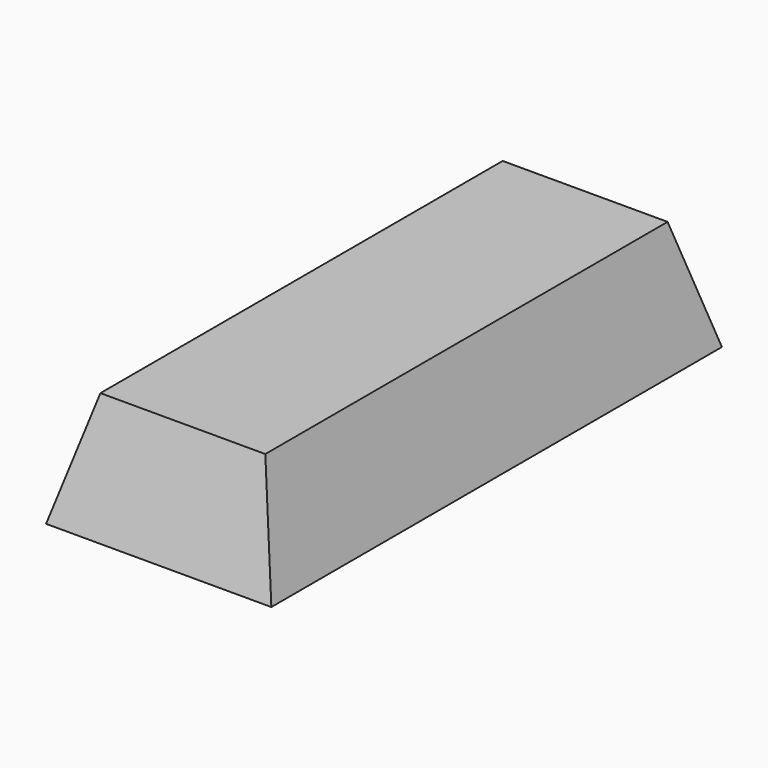
from build123d import *

# Parameters (mm, degrees)
F0_W     = 50.8
F0_H     = 127
F1_DEPTH = 25.4
F1_TAPER = 15
F2_T     = -5.08


with BuildPart() as f1:
    # F0 (on Top) → F1 (new body)
    with BuildSketch(Plane.XY):
        Rectangle(F0_W, F0_H)
    extrude(amount=F1_DEPTH, taper=F1_TAPER)

    # F2
    f2_openings = [f1.faces().sort_by_distance(p)[0] for p in [
        (0, 0, 0),
    ]]
    offset(amount=F2_T, openings=f2_openings)


solid = f1.part
